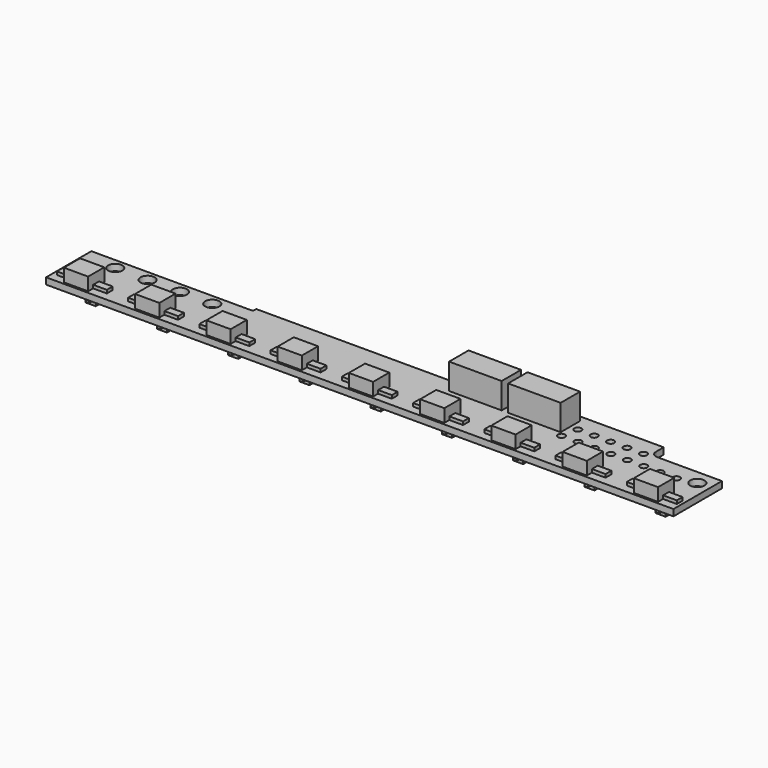
from build123d import *

# Parameters (mm, degrees)
SKETCH_W               = 97
SKETCH_H               = 8.75
PAD_DEPTH              = 1
SKETCH001_R            = 1.1
POCKET_DEPTH           = 5
COPYSKETCH002_R        = 1.1
POCKET001_DEPTH        = 5
LINEARPATTERN_COUNT    = 4
LINEARPATTERN_PITCH    = 5
SKETCH003_W            = 3.75
SKETCH003_H            = 3.125
PAD001_DEPTH           = 2
LINEARPATTERN001_COUNT = 9
LINEARPATTERN001_PITCH = 11.015625
COPYSKETCH004_R        = 0.75
POCKET002_DEPTH        = 5
LINEARPATTERN002_COUNT = 9
LINEARPATTERN002_PITCH = 11.015625
SKETCH005_W            = 72
SKETCH005_H            = 1
PAD002_DEPTH           = 0.625
SKETCH006_W            = 30.375
SKETCH006_H            = 1
PAD003_DEPTH           = 2.5
FILLET_R               = 1
FILLET001_R            = 0.3
SKETCH007_W            = 6.25
SKETCH007_H            = 1
PAD004_DEPTH           = 1.2
CHAMFER_SIZE           = 1.1
SKETCH008_W            = 1.58
SKETCH008_H            = 2.01
PAD005_DEPTH           = 1
LINEARPATTERN003_COUNT = 9
LINEARPATTERN003_PITCH = 11.015625
SKETCH009_W            = 1.877311
SKETCH009_H            = 1.127603
SKETCH009_W_2          = 2.114254
PAD006_DEPTH           = 0.5
LINEARPATTERN004_COUNT = 9
LINEARPATTERN004_PITCH = 11.015625
SKETCH010_W            = 0.506391
SKETCH010_H            = 0.632239
PAD007_DEPTH           = 0.5
LINEARPATTERN005_COUNT = 9
LINEARPATTERN005_PITCH = 11.015625
SKETCH011_W            = 8.125
SKETCH011_H            = 3.75
PAD008_DEPTH           = 4
SKETCH012_R            = 0.55
POCKET003_DEPTH        = 5
LINEARPATTERN006_COUNT = 5
LINEARPATTERN006_PITCH = 2.54
SKETCH013_R            = 0.55
POCKET004_DEPTH        = 5
LINEARPATTERN007_COUNT = 8
LINEARPATTERN007_PITCH = 2.54


with BuildPart() as part:
    # Sketch → Pad (new body)
    with BuildSketch(Plane.XY):
        with Locations((48.5, 4.375)):
            Rectangle(SKETCH_W, SKETCH_H)
    extrude(amount=PAD_DEPTH)

    # Sketch001 (on Face6 of Pad) → Pocket (cut)
    with BuildSketch(Plane.XY.offset(1)):
        with Locations((5, 7.125)):
            Circle(SKETCH001_R)
    pocket = extrude(amount=-POCKET_DEPTH, mode=Mode.SUBTRACT)

    # CopySketch002 → Pocket001 (cut)
    with BuildSketch(Plane.XY.offset(1)):
        with Locations((95, 7.125)):
            Circle(COPYSKETCH002_R)
    extrude(amount=-POCKET001_DEPTH, mode=Mode.SUBTRACT)

    # LinearPattern: Pocket ×4
    with Locations(*[(i * LINEARPATTERN_PITCH, 0, 0) for i in range(1, LINEARPATTERN_COUNT)]):
        add(pocket, mode=Mode.SUBTRACT)

    # Sketch003 (on Face5 of LinearPattern) → Pad001 (join)
    with BuildSketch(Plane.XY.offset(1)):
        with Locations((4.375, 1.875)):
            Rectangle(SKETCH003_W, SKETCH003_H)
    pad001 = extrude(amount=PAD001_DEPTH)

    # LinearPattern001: Pad001 ×9
    with Locations(*[(i * LINEARPATTERN001_PITCH, 0, 0) for i in range(1, LINEARPATTERN001_COUNT)]):
        add(pad001)

    # CopySketch004 → Pocket002 (cut)
    with BuildSketch(Plane.XY.offset(1)):
        with Locations((4.375, 1.875)):
            Circle(COPYSKETCH004_R)
    pocket002 = extrude(amount=-POCKET002_DEPTH, mode=Mode.SUBTRACT)

    # LinearPattern002: Pocket002 ×9
    with Locations(*[(i * LINEARPATTERN002_PITCH, 0, 0) for i in range(1, LINEARPATTERN002_COUNT)]):
        add(pocket002, mode=Mode.SUBTRACT)

    # Sketch005 (on Face1 of LinearPattern002) → Pad002 (join)
    with BuildSketch(Plane(origin=(0, 8.75, 0), x_dir=(-1, 0, 0), z_dir=(0, 1, 0))):
        with Locations((-61, 0.5)):
            Rectangle(SKETCH005_W, SKETCH005_H)
    extrude(amount=PAD002_DEPTH)

    # Sketch006 (on Face24 of Pad002) → Pad003 (join)
    with BuildSketch(Plane(origin=(0, 9.375, 0), x_dir=(-1, 0, 0), z_dir=(0, 1, 0))):
        with Locations((-70.8125, 0.5)):
            Rectangle(SKETCH006_W, SKETCH006_H)
    extrude(amount=PAD003_DEPTH)

    # Fillet
    fillet_edges = [part.edges().sort_by_distance(p)[0] for p in [
        (55.625, 9.375, 0.5),
        (86, 9.375, 0.5),
    ]]
    fillet(fillet_edges, radius=FILLET_R)

    # Fillet001
    fillet001_edges = [part.edges().sort_by_distance(p)[0] for p in [
        (25, 8.75, 0.5),
    ]]
    fillet(fillet001_edges, radius=FILLET001_R)

    # Sketch007 (on Face30 of Fillet001) → Pad004 (join)
    with BuildSketch(Plane(origin=(0, 11.875, 0), x_dir=(-1, 0, 0), z_dir=(0, 1, 0))):
        with Locations((-65.9375, 0.5)):
            Rectangle(SKETCH007_W, SKETCH007_H)
    extrude(amount=PAD004_DEPTH)

    # Chamfer
    chamfer_edges = [part.edges().sort_by_distance(p)[0] for p in [
        (69.0625, 13.075, 0.5),
        (62.8125, 13.075, 0.5),
    ]]
    chamfer(chamfer_edges, length=CHAMFER_SIZE)

    # Sketch008 (on Face20 of Chamfer) → Pad005 (join)
    with BuildSketch(Plane(origin=(0, 0, 0), x_dir=(1, 0, 0), z_dir=(0, 0, -1))):
        with Locations((6.231362, -1.836351)):
            Rectangle(SKETCH008_W, SKETCH008_H)
    pad005 = extrude(amount=PAD005_DEPTH)

    # LinearPattern003: Pad005 ×9
    with Locations(*[(i * LINEARPATTERN003_PITCH, 0, 0) for i in range(1, LINEARPATTERN003_COUNT)]):
        add(pad005)

    # Sketch009 (on Face78 of LinearPattern003) → Pad006 (join)
    with BuildSketch(Plane.XY.offset(1)):
        with Locations((1.585892, 1.840762)):
            Rectangle(SKETCH009_W, SKETCH009_H)
        with Locations((7.318072, 1.840762)):
            Rectangle(SKETCH009_W_2, SKETCH009_H)
    pad006 = extrude(amount=PAD006_DEPTH)

    # LinearPattern004: Pad006 ×9
    with Locations(*[(i * LINEARPATTERN004_PITCH, 0, 0) for i in range(1, LINEARPATTERN004_COUNT)]):
        add(pad006)

    # Sketch010 (on Face20 of LinearPattern004) → Pad007 (join)
    with BuildSketch(Plane(origin=(0, 0, 0), x_dir=(1, 0, 0), z_dir=(0, 0, -1))):
        with Locations((6.241556, -0.536593)):
            Rectangle(SKETCH010_W, SKETCH010_H)
        with Locations((6.241556, -3.153995)):
            Rectangle(SKETCH010_W, SKETCH010_H)
    pad007 = extrude(amount=PAD007_DEPTH)

    # LinearPattern005: Pad007 ×9
    with Locations(*[(i * LINEARPATTERN005_PITCH, 0, 0) for i in range(1, LINEARPATTERN005_COUNT)]):
        add(pad007)

    # Sketch011 (on Face132 of LinearPattern005) → Pad008 (join)
    with BuildSketch(Plane.XY.offset(1)):
        with Locations((60.633135, 9.058138)):
            Rectangle(SKETCH011_W, SKETCH011_H)
        with Locations((69.758135, 9.058138)):
            Rectangle(SKETCH011_W, SKETCH011_H)
    extrude(amount=PAD008_DEPTH)

    # Sketch012 (on Face23 of Pad008) → Pocket003 (cut)
    with BuildSketch(Plane.XY.offset(1)):
        with Locations((75.010429, 9.006348)):
            Circle(SKETCH012_R)
    pocket003 = extrude(amount=-POCKET003_DEPTH, mode=Mode.SUBTRACT)

    # LinearPattern006: Pocket003 ×5
    with Locations(*[(i * LINEARPATTERN006_PITCH, 0, 0) for i in range(1, LINEARPATTERN006_COUNT)]):
        add(pocket003, mode=Mode.SUBTRACT)

    # Sketch013 (on Face33 of LinearPattern006) → Pocket004 (cut)
    with BuildSketch(Plane.XY.offset(1)):
        with Locations((74.5, 6.515325)):
            Circle(SKETCH013_R)
    pocket004 = extrude(amount=-POCKET004_DEPTH, mode=Mode.SUBTRACT)

    # LinearPattern007: Pocket004 ×8
    with Locations(*[(i * LINEARPATTERN007_PITCH, 0, 0) for i in range(1, LINEARPATTERN007_COUNT)]):
        add(pocket004, mode=Mode.SUBTRACT)


solid = part.part
